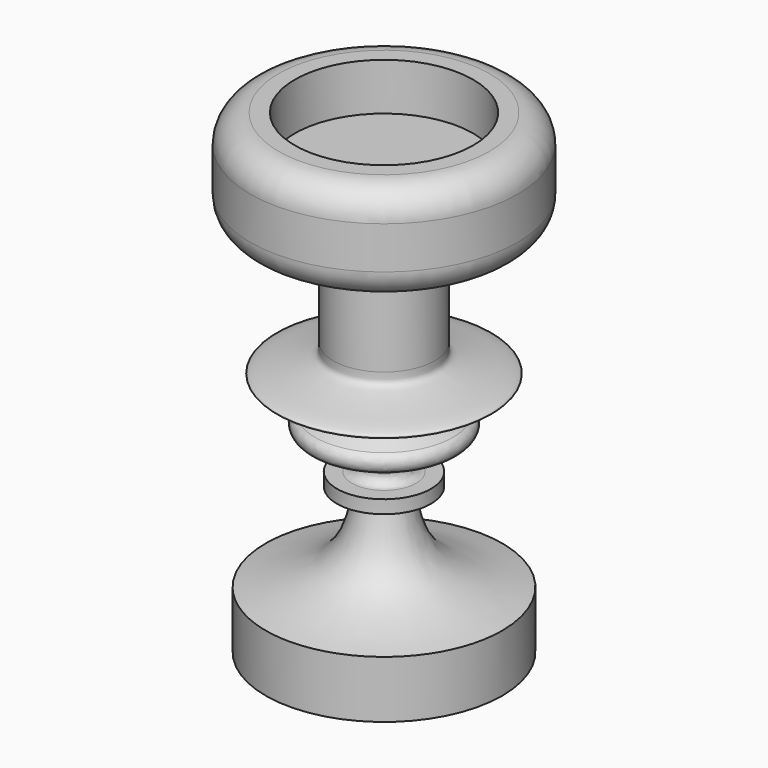
from build123d import *

# Parameters (mm, degrees)
F2_R      = 9.4241933099
F3_DEPTH  = 5
F4_R      = 3
F5_R      = 3
F6_R      = 1
F7_R      = 1
F8_R      = 1
F9_R      = 1
F10_R     = 3
F11_R     = 1
F12_R     = 1
F13_R     = 20
F13_R_2   = 12.5
F14_DEPTH = 25


with BuildPart() as f1:
    # F0 (on Front) → F1 (revolve)
    with BuildSketch(Plane.XZ):
        with BuildLine():
            Line((0, 34.7504628913), (0, 0))
            Line((0, 0), (20, 0))
            Line((20, 0), (20, 5))
            add(Edge.make_bspline(
                [(20, 5), (14.032021677, 5.7092755449), (3.9800397459, 6.9039221363), (2.943198313, 12.9551807663), (2.5219416711, 15.4137369245)],
                knots=[0, 0, 0, 0, 0.5937116047, 1, 1, 1, 1], degree=3))
            Line((2.5219416711, 15.4137369245), (4.9680764787, 15.4137369245))
            Line((4.9680764787, 15.4137369245), (4.9738734961, 16.8098993599))
            Line((4.9738734961, 16.8098993599), (2.4027352642, 16.8205750038))
            Line((2.4027352642, 16.8205750038), (2.4027352642, 19.3168018013))
            Line((2.4027352642, 19.3168018013), (4.9738734961, 19.3168018013))
            Line((4.9738734961, 19.3168018013), (6.2594641931, 20.345274359))
            Line((6.2594641931, 20.345274359), (10.6304744259, 20.8595115691))
            Line((10.6304744259, 20.8595115691), (2.8154104948, 24.2946967483))
            add(Edge.make_bspline(
                [(2.8154104948, 24.2946967483), (5.8190665265, 25.5756674082), (7.5554339048, 24.7374522654), (13.9154303818, 26.1847596288), (4.9454555112, 27.1078437763), (5.4111930722, 28.2851931228), (5.3782239556, 28.8535226136)],
                knots=[0, 0, 0, 0, 0.1537799031, 0.259261732, 0.4109574707, 0.4842090456, 0.4842090456, 0.4842090456, 0.4842090456], degree=3))
            add(Edge.make_bspline(
                [(5.3782239556, 28.8535226136), (5.3147552628, 29.9476110709), (4.2454849006, 32.4923576348), (1.123125121, 34.2757409622), (0, 34.7504628913)],
                knots=[0.4842090456, 0.4842090456, 0.4842090456, 0.4842090456, 0.6252253113, 0.6858705401, 0.6858705401, 0.6858705401, 0.6858705401], degree=3))
        make_face()
        with BuildLine():
            Line((0, 50.2131655812), (0, 34.7504628913))
            add(Edge.make_bspline(
                [(5.3782239556, 28.8535226136), (5.3147552628, 29.9476110709), (4.2454849006, 32.4923576348), (1.123125121, 34.2757409622), (0, 34.7504628913)],
                knots=[0.4842090456, 0.4842090456, 0.4842090456, 0.4842090456, 0.6252253113, 0.6858705401, 0.6858705401, 0.6858705401, 0.6858705401], degree=3))
            Line((5.3782239556, 28.8535226136), (5.3782239556, 39.7317782044))
            Line((5.3782239556, 39.7317782044), (14.1412140802, 39.7317782044))
            Line((14.1412140802, 39.7317782044), (14.1412140802, 50.2131655812))
            Line((14.1412140802, 50.2131655812), (0, 50.2131655812))
        make_face()
    revolve(axis=Axis((0, 0, 25.1065827906), (0, 0, -1)))

    # F2 (on face) → F3 (cut)
    with BuildSketch(Plane.XY.offset(50.2131655812)):
        Circle(F2_R)
    extrude(amount=-F3_DEPTH, mode=Mode.SUBTRACT)

    # F4
    f4_edges = [f1.edges().sort_by_distance(p)[0] for p in [
        (-14.141214, 0, 39.731778),
    ]]
    fillet(f4_edges, radius=F4_R)

    # F5
    f5_edges = [f1.edges().sort_by_distance(p)[0] for p in [
        (-14.141214, 0, 50.213166),
    ]]
    fillet(f5_edges, radius=F5_R)

    # F6
    f6_edges = [f1.edges().sort_by_distance(p)[0] for p in [
        (-2.521942, 0, 15.413737),
    ]]
    fillet(f6_edges, radius=F6_R)

    # F7
    f7_edges = [f1.edges().sort_by_distance(p)[0] for p in [
        (-2.402735, 0, 16.820575),
    ]]
    fillet(f7_edges, radius=F7_R)

    # F8
    f8_edges = [f1.edges().sort_by_distance(p)[0] for p in [
        (-2.402735, 0, 19.316802),
    ]]
    fillet(f8_edges, radius=F8_R)

    # F9
    f9_edges = [f1.edges().sort_by_distance(p)[0] for p in [
        (-4.973873, 0, 19.316802),
    ]]
    fillet(f9_edges, radius=F9_R)

    # F10
    f10_edges = [f1.edges().sort_by_distance(p)[0] for p in [
        (-6.259464, 0, 20.345274),
    ]]
    fillet(f10_edges, radius=F10_R)

    # F11
    f11_edges = [f1.edges().sort_by_distance(p)[0] for p in [
        (-10.630474, 0, 20.859512),
    ]]
    fillet(f11_edges, radius=F11_R)

    # F12
    f12_edges = [f1.edges().sort_by_distance(p)[0] for p in [
        (-2.81541, 0, 24.294697),
    ]]
    fillet(f12_edges, radius=F12_R)

    # F13 (on face) → F14 (cut)
    with BuildSketch(Plane(origin=(0, 0, 0), x_dir=(1, 0, 0), z_dir=(0, 0, -1))):
        Circle(F13_R)
        Circle(F13_R_2, mode=Mode.SUBTRACT)
    extrude(amount=-F14_DEPTH, mode=Mode.SUBTRACT)


solid = f1.part
